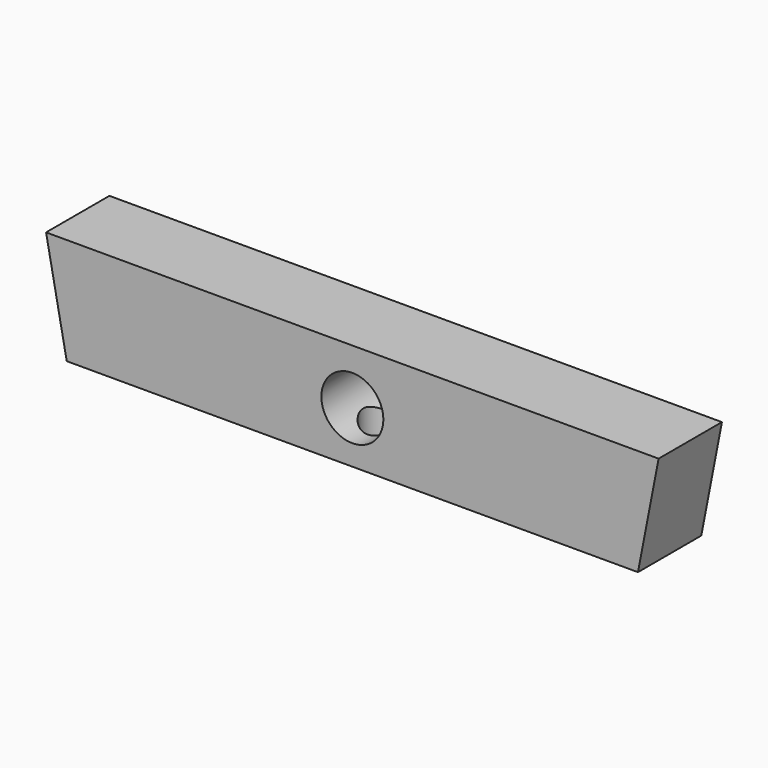
from build123d import *

# Parameters (mm, degrees)
F1_DEPTH = 11.5
F2_R     = 4.5
F3_DEPTH = 11.501
F4_R     = 3
F5_DEPTH = 10


with BuildPart() as f1:
    # F0 (on Front) → F1 (new body)
    with BuildSketch(Plane.XZ):
        Polygon((-44.5, 15.5), (-41.5, 0), (41.5, 0), (44.5, 15.5), align=None)
    extrude(amount=F1_DEPTH)

    # F2 (on face) → F3 (cut, through all)
    with BuildSketch(Plane(origin=(0, 0, 0), x_dir=(-1, 0, 0), z_dir=(0, 1, 0))):
        with Locations((0, 7.5)):
            Circle(F2_R)
    extrude(amount=-F3_DEPTH, mode=Mode.SUBTRACT)

    # F4 (on face) → F5 (cut)
    with BuildSketch(Plane(origin=(0, 0, 0), x_dir=(1, 0, 0), z_dir=(0, 0, -1))):
        with Locations((0, 5.75)):
            Circle(F4_R)
    extrude(amount=-F5_DEPTH, mode=Mode.SUBTRACT)


solid = f1.part
